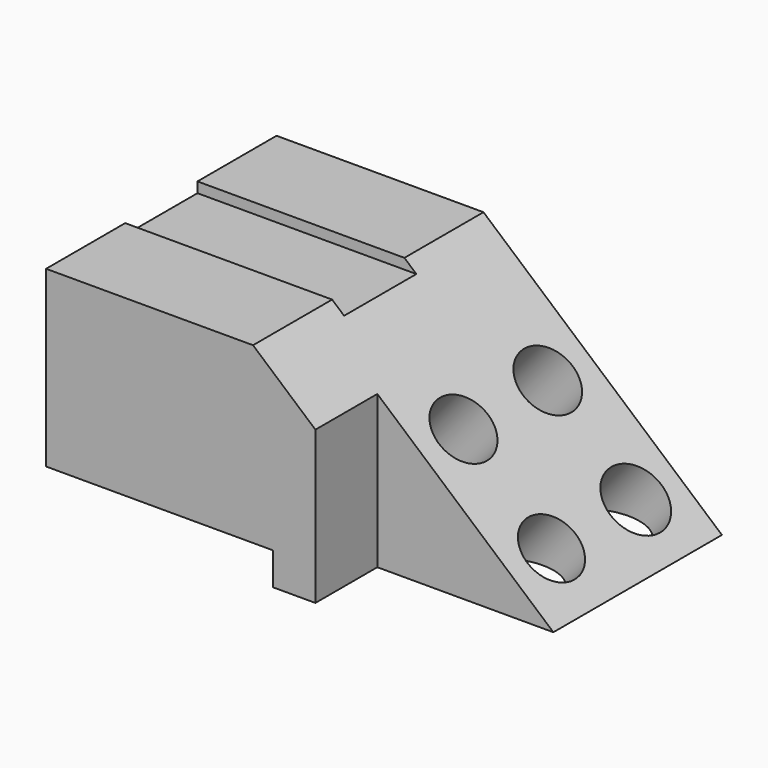
from build123d import *

# Parameters (mm, degrees)
F0_W      = 148.8298028708
F0_H      = 94.5572704077
F1_DEPTH  = 67.818
F3_DEPTH  = 63.5
F4_W      = 77.2124454379
F4_H      = 15.4310404323
F5_DEPTH  = 100.33
F6_W      = 59.3081153929
F6_H      = 62.6651751809
F7_DEPTH  = 25.4
F8_W      = 29.6540576965
F8_H      = 6.8081544653
F9_DEPTH  = 87.122
F10_R     = 10.1527389167
F10_R_2   = 10.0169439882
F10_R_3   = 10.557482782
F10_R_4   = 10.2404194945
F11_DEPTH = 107.696


with BuildPart() as f1:
    # F0 (on Top) → F1 (new body)
    with BuildSketch(Plane.XY):
        Rectangle(F0_W, F0_H)
    extrude(amount=F1_DEPTH)

    # F2 (on Front) → F3 (cut, symmetric)
    with BuildSketch(Plane.XZ):
        Polygon((83.3928560285, 71.8970969319), (-11.1966025054, 71.8970969319), (83.3928560285, -10.0711896084), align=None)
    extrude(amount=F3_DEPTH, both=True, mode=Mode.SUBTRACT)

    # F4 (on face) → F5 (cut)
    with BuildSketch(Plane.XZ.offset(47.2786352038)):
        with Locations((-38.606222719, 2.9596809763)):
            Rectangle(F4_W, F4_H)
    extrude(amount=-F5_DEPTH, mode=Mode.SUBTRACT)

    # F6 (on face) → F7 (cut)
    with BuildSketch(Plane.XZ.offset(47.2786352038)):
        with Locations((43.6418186873, 26.5767483506)):
            Rectangle(F6_W, F6_H)
    extrude(amount=-F7_DEPTH, mode=Mode.SUBTRACT)

    # F8 (on face) → F9 (cut)
    with BuildSketch(Plane(origin=(-74.4149014354, 0, 0), x_dir=(0, -1, 0), z_dir=(-1, 0, 0))):
        with Locations((0, 67.818)):
            Rectangle(F8_W, F8_H)
    extrude(amount=-F9_DEPTH, mode=Mode.SUBTRACT)

    # F10 (on face) → F11 (cut)
    with BuildSketch(Plane(origin=(30.781032969, 0, 35.5205819779), x_dir=(0.7557256351, 0, -0.6548883603), z_dir=(0.6548883603, 0, 0.7557256351))):
        with Locations((-3.1062552259, -4.5893176019)):
            Circle(F10_R)
        with Locations((35.1240087858, -4.5893176019)):
            Circle(F10_R_2)
        with Locations((35.1240087858, 29.9893176019)):
            Circle(F10_R_3)
        with Locations((-3.1062552259, 29.9893176019)):
            Circle(F10_R_4)
    extrude(amount=-F11_DEPTH, mode=Mode.SUBTRACT)


solid = f1.part
